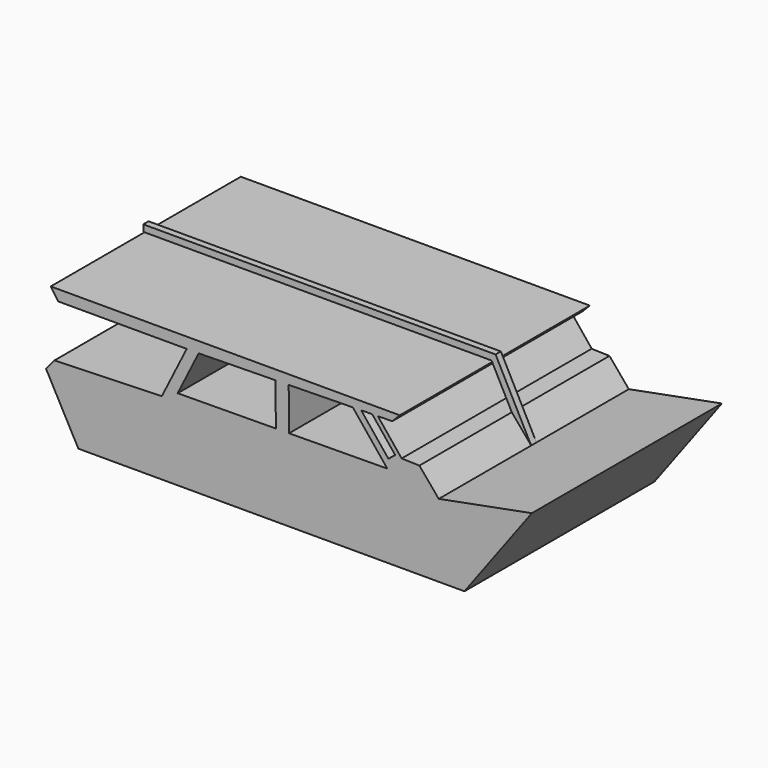
from build123d import *

# Parameters (mm, degrees)
F1_DEPTH      = 1828.8
F3_DEPTH      = 50.8
F3_DEPTH_BACK = 50.8


with BuildPart() as f1:
    # F0 (on Front) → F1 (new body, symmetric)
    with BuildSketch(Plane.XZ):
        Polygon((-2020.348307, 223.85879), (-3672.937155, 171.358168), (-3802.726367, 13.953226), (-3305.621624, -905.987799), (2638.152599, -905.987799), (3675.868273, 490.310133), (2242.78903, 218.264133), (1944.646955, 572.371602), (1671.465755, 580.329478), (1304.825534, 1034.523337), (1527.562499, 1038.1986), (1642.685175, 1155.942798), (-3730.89198, 1155.050703), (-3614.660896, 989.006193), (-1637.731874, 989.006193), align=None)
        Polygon((-264.985985, 355.649034), (-1776.98334, 342.535501), (-1453.71189, 989.006193), (-270.64839, 1008.527288), align=None, mode=Mode.SUBTRACT)
        Polygon((919.336913, 1028.162596), (1450.203727, 370.524853), (-61.793627, 357.411319), (-67.469824, 1011.879829), align=None, mode=Mode.SUBTRACT)
        Polygon((1467.888093, 509.742774), (1047.592423, 1030.404998), (1217.534915, 1033.083001), (1572.091088, 593.858859), align=None, mode=Mode.SUBTRACT)
    extrude(amount=F1_DEPTH, both=True)

    # F2 (on Front) → F3 (join, two sides)
    with BuildSketch(Plane.XZ) as f3_sk:
        Polygon((1633.210299, 1172.754667), (1944.646955, 572.371602), (2242.78903, 218.264133), (1694.963279, 1274.354667), (-3729.110487, 1274.354667), (-3729.110487, 1172.754667), align=None)
    extrude(amount=F3_DEPTH)
    extrude(f3_sk.sketch, amount=-F3_DEPTH_BACK)


solid = f1.part
